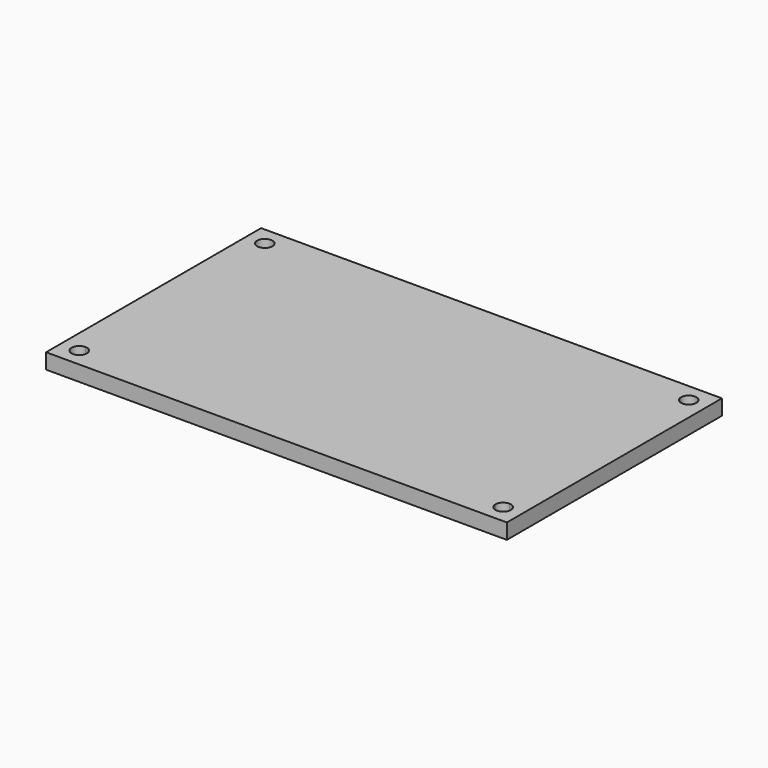
from build123d import *

# Parameters (mm, degrees)
F0_W     = 150
F0_H     = 87.5
F1_DEPTH = 5


with BuildPart() as f1:
    # F0 (on Top) → F1 (new body)
    with BuildSketch(Plane.XY):
        Rectangle(F0_W, F0_H)
        with BuildLine():
            ThreePointArc((-69, 35.25), (-70.767766953, 39.517766953), (-66.5, 37.75))
            Line((-66.5, 37.75), (66.5, 37.75))
            ThreePointArc((66.5, 37.75), (69, 40.25), (71.5, 37.75))
            ThreePointArc((71.5, 37.75), (70.767766953, 35.982233047), (69, 35.25))
            Line((69, 35.25), (69, -35.25))
            ThreePointArc((69, -35.25), (70.767766953, -35.982233047), (71.5, -37.75))
            ThreePointArc((71.5, -37.75), (69, -40.25), (66.5, -37.75))
            Line((66.5, -37.75), (-66.5, -37.75))
            ThreePointArc((-66.5, -37.75), (-70.767766953, -39.517766953), (-69, -35.25))
            Line((-69, -35.25), (-69, 35.25))
        make_face(mode=Mode.SUBTRACT)
        with BuildLine():
            Line((66.5, 37.75), (-66.5, 37.75))
            ThreePointArc((-66.5, 37.75), (-67.232233047, 35.982233047), (-69, 35.25))
            Line((-69, 35.25), (-69, -35.25))
            ThreePointArc((-69, -35.25), (-67.232233047, -35.982233047), (-66.5, -37.75))
            Line((-66.5, -37.75), (66.5, -37.75))
            ThreePointArc((66.5, -37.75), (67.232233047, -35.982233047), (69, -35.25))
            Line((69, -35.25), (69, 35.25))
            ThreePointArc((69, 35.25), (67.232233047, 35.982233047), (66.5, 37.75))
        make_face()
    extrude(amount=F1_DEPTH)


solid = f1.part
